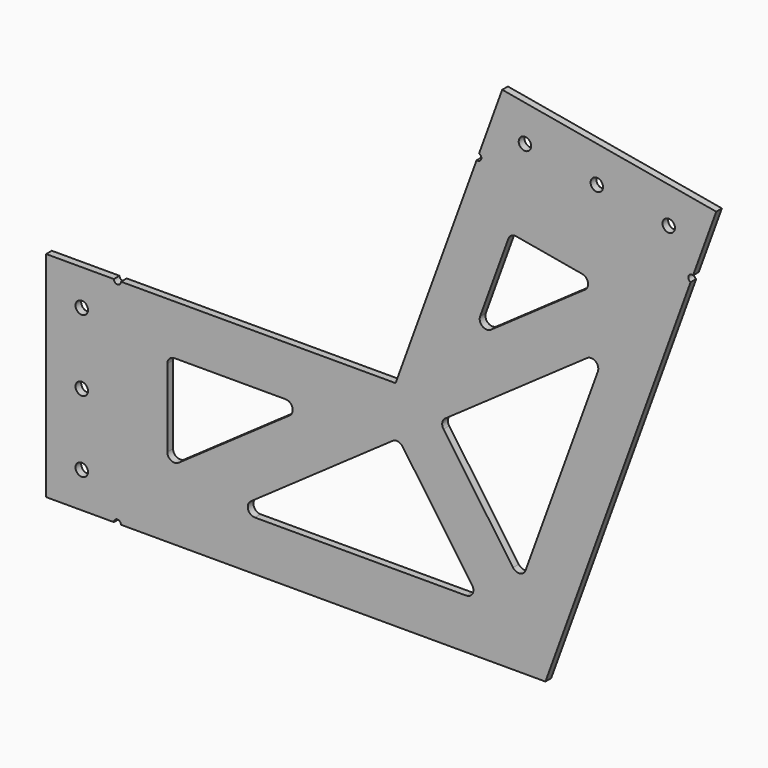
from build123d import *

# Parameters (mm, degrees)
F0_R     = 0.875
F1_DEPTH = 1
F2_SCALE = 3


with BuildPart() as f1:
    # F0 (on Front) → F1 (new body)
    with BuildSketch(Plane.XZ):
        with BuildLine():
            Line((-9.5, -65.0096278997), (50, -65.0096278997))
            Line((50, -65.0096278997), (70.3501985279, -9.0979169629))
            ThreePointArc((70.3501985279, -9.0979169629), (70.0513622891, -8.4570605809), (70.6922186712, -8.1582243421))
            Line((70.6922186712, -8.1582243421), (73.9414100328, 0.7688555553))
            Line((73.9414100328, 0.7688555553), (43.9414100328, 6.0586649766))
            Line((43.9414100328, 6.0586649766), (40.6922186712, -2.8684149209))
            ThreePointArc((40.6922186712, -2.8684149209), (40.9910549099, -3.5092713029), (40.3501985279, -3.8081075417))
            Line((40.3501985279, -3.8081075417), (28.9937738537, -35.0096278997))
            Line((28.9937738537, -35.0096278997), (-9.5, -35.0096278997))
            ThreePointArc((-9.5, -35.0096278997), (-10, -35.5096278997), (-10.5, -35.0096278997))
            Line((-10.5, -35.0096278997), (-20, -35.0096278997))
            Line((-20, -35.0096278997), (-20, -65.0096278997))
            Line((-20, -65.0096278997), (-10.5, -65.0096278997))
            ThreePointArc((-10.5, -65.0096278997), (-10, -64.5096278997), (-9.5, -65.0096278997))
        make_face()
        with Locations((-15, -60.0096278997)):
            Circle(F0_R, mode=Mode.SUBTRACT)
        with Locations((-15, -50.0096278997)):
            Circle(F0_R, mode=Mode.SUBTRACT)
        with BuildLine():
            ThreePointArc((-1.4264235636, -54.7336339889), (-2.4617486132, -54.8014927777), (-3, -53.9144819446))
            Line((-3, -53.9144819446), (-3, -43.0096278997))
            ThreePointArc((-3, -43.0096278997), (-2.7071067812, -42.3025211185), (-2, -42.0096278997))
            Line((-2, -42.0096278997), (13.573745568, -42.0096278997))
            ThreePointArc((13.573745568, -42.0096278997), (14.5274625188, -42.7089221002), (14.1473220044, -43.828779944))
            Line((14.1473220044, -43.828779944), (-1.4264235636, -54.7336339889))
        make_face(mode=Mode.SUBTRACT)
        with BuildLine():
            ThreePointArc((39.7240060892, -56.4360514633), (39.7918648781, -57.4713765129), (38.9048540449, -58.0096278997))
            Line((38.9048540449, -58.0096278997), (9.2706946342, -58.0096278997))
            ThreePointArc((9.2706946342, -58.0096278997), (8.3169776835, -57.3103336992), (8.6971181979, -56.1904758554))
            Line((8.6971181979, -56.1904758554), (28.5819376277, -42.2669753947))
            ThreePointArc((28.5819376277, -42.2669753947), (29.3291622417, -42.101319686), (29.9746661083, -42.5125510026))
            Line((29.9746661083, -42.5125510026), (39.7240060892, -56.4360514633))
        make_face(mode=Mode.SUBTRACT)
        with Locations((-15, -40.0096278997)):
            Circle(F0_R, mode=Mode.SUBTRACT)
        with BuildLine():
            Line((57.3523945133, -24.3424591944), (47.2169150643, -52.1894601158))
            ThreePointArc((47.2169150643, -52.1894601158), (46.4077486357, -52.8388848339), (45.4580703992, -52.4210164089))
            Line((45.4580703992, -52.4210164089), (35.7087304184, -38.4975159482))
            ThreePointArc((35.7087304184, -38.4975159482), (35.5430747096, -37.7502913341), (35.9543060263, -37.1047874675))
            Line((35.9543060263, -37.1047874675), (55.8391254561, -23.1812870068))
            ThreePointArc((55.8391254561, -23.1812870068), (57.0214633215, -23.2070857108), (57.3523945133, -24.3424591944))
        make_face(mode=Mode.SUBTRACT)
        with BuildLine():
            ThreePointArc((42.3588515407, -24.0748542982), (41.1765136753, -24.0490555942), (40.8455824836, -22.9136821106))
            Line((40.8455824836, -22.9136821106), (44.8031451361, -12.0403680867))
            ThreePointArc((44.8031451361, -12.0403680867), (45.2428377569, -11.5163628263), (45.9164859345, -11.397580477))
            Line((45.9164859345, -11.397580477), (55.1599311689, -13.0274492665))
            ThreePointArc((55.1599311689, -13.0274492665), (55.9625789983, -13.7958174056), (55.5598594276, -14.8314090638))
            Line((55.5598594276, -14.8314090638), (42.3588515407, -24.0748542982))
        make_face(mode=Mode.SUBTRACT)
        with Locations((47.1289670212, 0.4194796176)):
            Circle(F0_R, mode=Mode.SUBTRACT)
        with Locations((67.2808894911, -3.133848027)):
            Circle(F0_R, mode=Mode.SUBTRACT)
        with Locations((57.2049282561, -1.3571842047)):
            Circle(F0_R, mode=Mode.SUBTRACT)
    extrude(amount=-F1_DEPTH)


with BuildPart() as f1_1:
    # F2: moved
    add(f1.part.scale(F2_SCALE).moved(Location((-57.9875477074, 0, 70.0192557993))))


solid = f1_1.part
